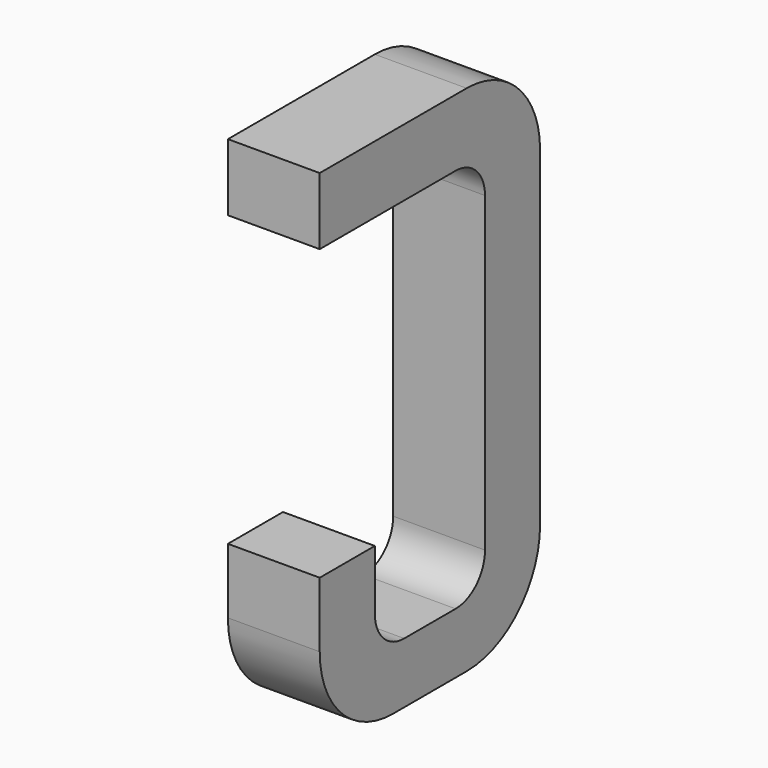
from build123d import *

# Parameters (mm, degrees)
BOX169_W     = 0.5
BOX169_H     = 1.5
BOX169_DEPTH = 2.795
FILLET365_R  = 0.5
FILLET375_R  = 0.5
FILLET384_R  = 0.5
BOX167_W     = 0.75
BOX167_H     = 2.1
BOX167_DEPTH = 1
FILLET391_R  = 0.2
FILLET373_R  = 0.2
FILLET364_R  = 0.2
FILLET392_R  = 0.2
BOX176_W     = 1
BOX176_H     = 1.575
BOX176_DEPTH = 3


with BuildPart() as part:
    # Box169 → Box169 (join)
    with BuildSketch(Plane(origin=(-0.25, 11.125, 0), x_dir=(1, 0, 0), z_dir=(0, 0, 1))):
        with Locations((0.25, 0.75)):
            Rectangle(BOX169_W, BOX169_H)
    extrude(amount=BOX169_DEPTH)

    # Fillet365
    fillet365_edges = [part.edges().sort_by_distance(p)[0] for p in [
        (0, 12.625, 0),
    ]]
    fillet(fillet365_edges, radius=FILLET365_R)

    # Fillet375
    fillet375_edges = [part.edges().sort_by_distance(p)[0] for p in [
        (0, 12.625, 2.795),
    ]]
    fillet(fillet375_edges, radius=FILLET375_R)

    # Fillet384
    fillet384_edges = [part.edges().sort_by_distance(p)[0] for p in [
        (0, 11.125, 0),
    ]]
    fillet(fillet384_edges, radius=FILLET384_R)

    # Box167 → Box167 (cut)
    with BuildSketch(Plane(origin=(-0.5, 11.5, 0.33), x_dir=(0, 1, 0), z_dir=(1, 0, 0))):
        with Locations((0.375, 1.05)):
            Rectangle(BOX167_W, BOX167_H)
    extrude(amount=BOX167_DEPTH, mode=Mode.SUBTRACT)

    # Fillet391
    fillet391_edges = [part.edges().sort_by_distance(p)[0] for p in [
        (0, 11.5, 0.33),
    ]]
    fillet(fillet391_edges, radius=FILLET391_R)

    # Fillet373
    fillet373_edges = [part.edges().sort_by_distance(p)[0] for p in [
        (0, 12.25, 0.33),
    ]]
    fillet(fillet373_edges, radius=FILLET373_R)

    # Fillet364
    fillet364_edges = [part.edges().sort_by_distance(p)[0] for p in [
        (0, 11.5, 2.43),
    ]]
    fillet(fillet364_edges, radius=FILLET364_R)

    # Fillet392
    fillet392_edges = [part.edges().sort_by_distance(p)[0] for p in [
        (0, 12.25, 2.43),
    ]]
    fillet(fillet392_edges, radius=FILLET392_R)

    # Box176 → Box176 (cut)
    with BuildSketch(Plane(origin=(-1, 11, 0.855), x_dir=(0, 1, 0), z_dir=(1, 0, 0))):
        with Locations((0.5, 0.7875)):
            Rectangle(BOX176_W, BOX176_H)
    extrude(amount=BOX176_DEPTH, mode=Mode.SUBTRACT)


with BuildPart() as part_1:
    # Body054 placement: moved
    add(part.part.moved(Location((7.62, 0, 0))))


solid = part_1.part
